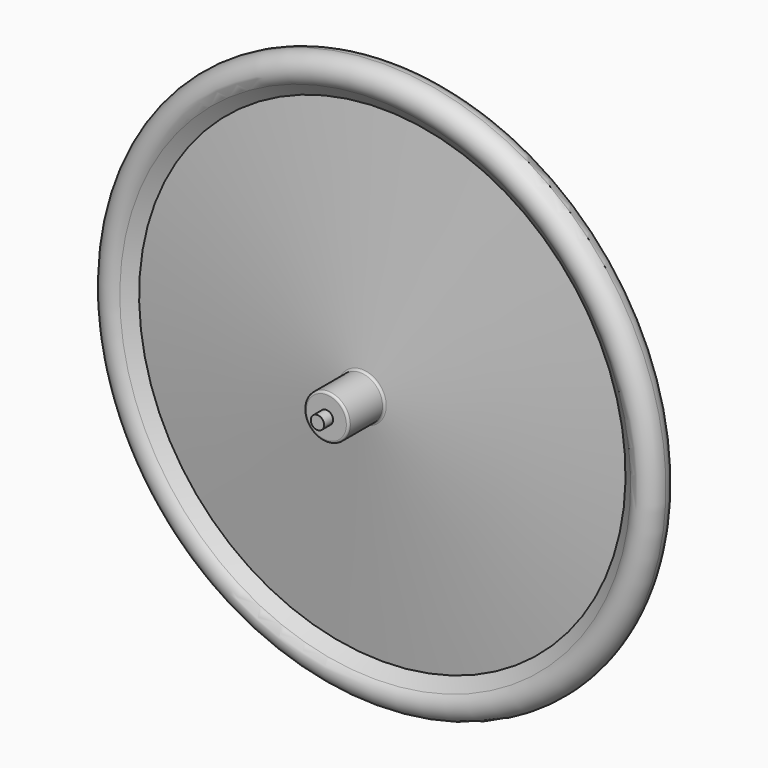
from build123d import *

# Parameters (mm, degrees)
F0_R = 11.8
F2_R = 2


with BuildPart() as f1:
    # F0 (on Right) → F1 (revolve)
    with BuildSketch(Plane.YZ):
        with BuildLine():
            Line((0, 0), (-75, 0))
            Line((-75, 0), (-75, -6))
            Line((-75, -6), (-65, -6))
            Line((-65, -6), (-65, -20))
            Line((-65, -20), (-25, -20))
            Line((-25, -20), (-2, -219))
            Line((-2, -219), (-10, -230))
            ThreePointArc((-10, -230), (-12.906809, -245.221453), (0, -253.797959))
            ThreePointArc((0, -253.797959), (12.906809, -245.221453), (10, -230))
            Line((10, -230), (2, -219))
            Line((2, -219), (25, -20))
            Line((25, -20), (65, -20))
            Line((65, -20), (65, -6))
            Line((65, -6), (75, -6))
            Line((75, -6), (75, 0))
            Line((75, 0), (0, 0))
        make_face()
        with Locations((0, -239.797959)):
            Circle(F0_R, mode=Mode.SUBTRACT)
        Polygon((-63, -18), (-63, -6), (63, -6), (63, -18), (23.217842, -18), (0, -218.884806), (-23.217842, -18), align=None, mode=Mode.SUBTRACT)
    revolve(axis=Axis((0, -37.5, 0), (0, 1, 0)))

    # F2
    f2_edges = [f1.edges().sort_by_distance(p)[0] for p in [
        (0, -65, 20),
        (0, -25, 20),
        (0, 25, 20),
        (0, 65, 20),
    ]]
    fillet(f2_edges, radius=F2_R)


solid = f1.part
